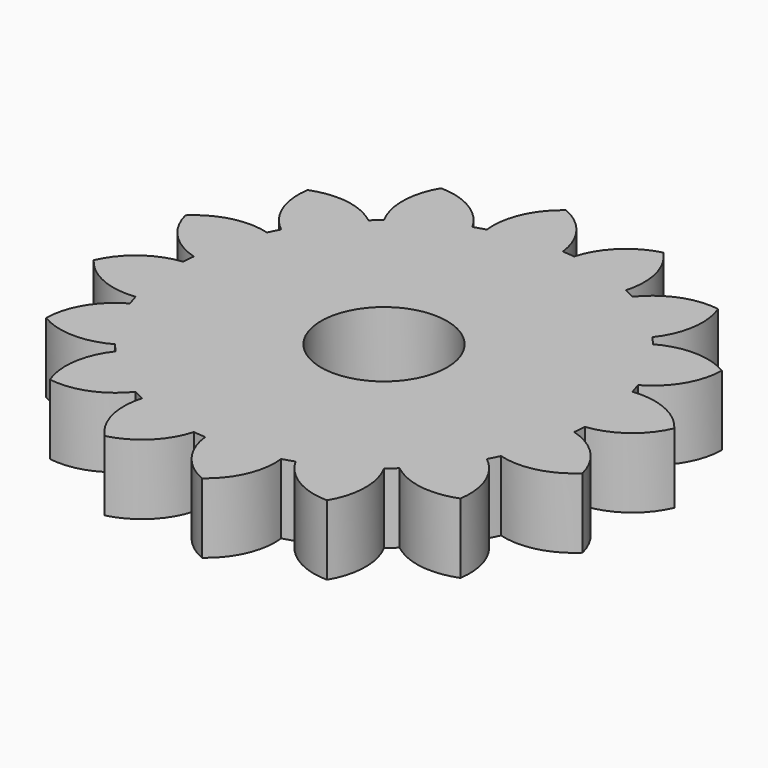
from build123d import *

# Parameters (mm, degrees)
F0_R     = 5.715
F1_DEPTH = 6.35
F2_COUNT = 16


with BuildPart() as f1:
    # F0 (on Top) → F1 (new body)
    with BuildSketch(Plane.XY):
        with BuildLine():
            ThreePointArc((-11.900443, 14.875549), (-8.252244, -17.169827), (19.05, 0))
            ThreePointArc((19.05, 0), (10.99846, 15.554304), (-6.350144, 17.960461))
            ThreePointArc((-6.350144, 17.960461), (-9.254736, 16.650896), (-11.900443, 14.875549))
        make_face()
        Circle(F0_R, mode=Mode.SUBTRACT)
        with BuildLine():
            ThreePointArc((-11.900443, 14.875549), (-9.254736, 16.650896), (-6.350144, 17.960461))
            ThreePointArc((-6.350144, 17.960461), (-8.636199, 20.322311), (-11.796905, 21.224705))
            ThreePointArc((-11.796905, 21.224705), (-12.6993, 18.063999), (-11.900443, 14.875549))
        make_face()
    extrude(amount=F1_DEPTH)

    # F2: F1 ×16 about axis
    f2_axis = Axis((0, 0, 0), (0, 0, -1))


with BuildPart() as f1_1:
    add(f1.part)
    for i in range(1, F2_COUNT):
        add(f1.part.rotate(f2_axis, i * 360 / F2_COUNT))


solid = f1_1.part
